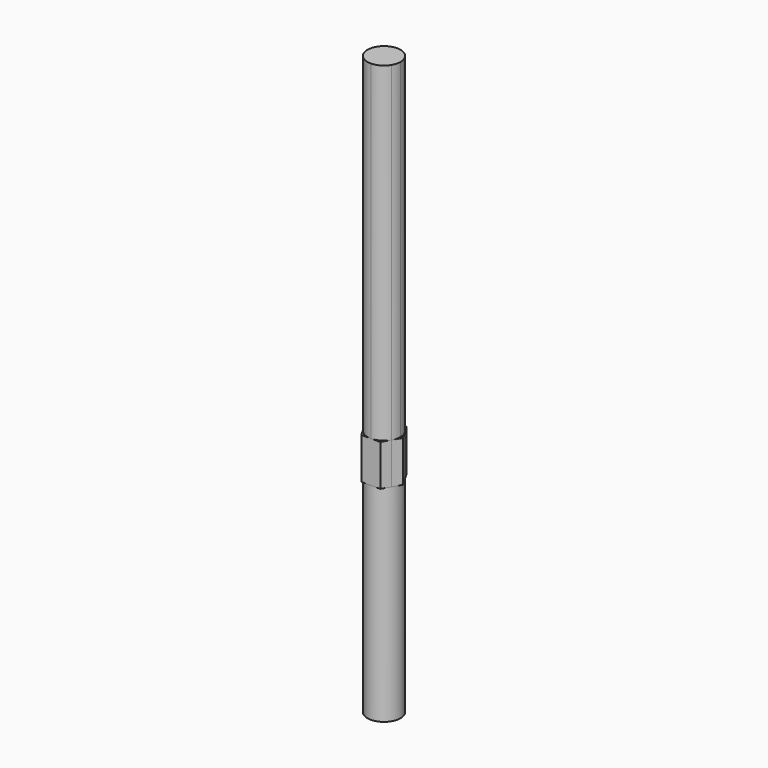
from build123d import *

# Parameters (mm, degrees)
F0_R     = 2
F1_DEPTH = 25
F3_DEPTH = 5
F5_DEPTH = 40


with BuildPart() as f1:
    # F0 (on Top) → F1 (new body)
    with BuildSketch(Plane.XY):
        Circle(F0_R)
    extrude(amount=F1_DEPTH)

    # F2 (on face) → F3 (join)
    with BuildSketch(Plane.XY.offset(25)):
        with BuildLine():
            Line((0, 2), (-1.1547005384, 2))
            Line((-1.1547005384, 2), (-1.7320507826, 1.0000000433))
            ThreePointArc((-1.7320507826, 1.0000000433), (-0.9999999783, 1.7320508201), (0, 2))
        make_face()
        with BuildLine():
            ThreePointArc((-1.7320507826, -1.0000000433), (-2, 0), (-1.7320507826, 1.0000000433))
            Line((-1.7320507826, 1.0000000433), (-2.3094010768, 0))
            Line((-2.3094010768, 0), (-1.7320507826, -1.0000000433))
        make_face()
        with BuildLine():
            ThreePointArc((0, -2), (-0.9999999783, -1.7320508201), (-1.7320507826, -1.0000000433))
            Line((-1.7320507826, -1.0000000433), (-1.1547005384, -2))
            Line((-1.1547005384, -2), (0, -2))
        make_face()
        with BuildLine():
            ThreePointArc((1.7320507983, -1.0000000161), (0.999999992, -1.7320508122), (0, -2))
            Line((0, -2), (1.1547005384, -2))
            Line((1.1547005384, -2), (1.7320507983, -1.0000000161))
        make_face()
        with BuildLine():
            Line((2.3094010768, 0), (1.7320507826, 1.0000000433))
            ThreePointArc((1.7320507826, 1.0000000433), (1.9318516461, 0.5176381144), (2, 0))
            ThreePointArc((2, 0), (1.9318516502, -0.5176380992), (1.7320507983, -1.0000000161))
            Line((1.7320507983, -1.0000000161), (2.3094010768, 0))
        make_face()
        with BuildLine():
            Line((1.1547005384, 2), (0, 2))
            ThreePointArc((0, 2), (0.9999999783, 1.7320508201), (1.7320507826, 1.0000000433))
            Line((1.7320507826, 1.0000000433), (1.1547005384, 2))
        make_face()
        with BuildLine():
            ThreePointArc((1.7320507826, 1.0000000433), (0.9999999783, 1.7320508201), (0, 2))
            ThreePointArc((0, 2), (-0.9999999783, 1.7320508201), (-1.7320507826, 1.0000000433))
            ThreePointArc((-1.7320507826, 1.0000000433), (-2, 0), (-1.7320507826, -1.0000000433))
            ThreePointArc((-1.7320507826, -1.0000000433), (-0.9999999783, -1.7320508201), (0, -2))
            ThreePointArc((0, -2), (0.999999992, -1.7320508122), (1.7320507983, -1.0000000161))
            ThreePointArc((1.7320507983, -1.0000000161), (1.9318516502, -0.5176380992), (2, 0))
            ThreePointArc((2, 0), (1.9318516461, 0.5176381144), (1.7320507826, 1.0000000433))
        make_face()
    extrude(amount=F3_DEPTH)

    # F4 (on face) → F5 (join)
    with BuildSketch(Plane.XY.offset(30)):
        with BuildLine():
            ThreePointArc((1.732050814, -0.9999999889), (1.9318516542, -0.517638084), (2, 0))
            ThreePointArc((2, 0), (1.9318516461, 0.5176381144), (1.7320507826, 1.0000000433))
            ThreePointArc((1.7320507826, 1.0000000433), (0.9999999783, 1.7320508201), (0, 2))
            ThreePointArc((0, 2), (-1.0000000056, 1.7320508044), (-1.732050814, 0.9999999889))
            ThreePointArc((-1.732050814, 0.9999999889), (-2, -3.14e-08), (-1.7320507826, -1.0000000433))
            ThreePointArc((-1.7320507826, -1.0000000433), (-0.9999999783, -1.7320508201), (0, -2))
            ThreePointArc((0, -2), (1.0000000056, -1.7320508044), (1.732050814, -0.9999999889))
        make_face()
    extrude(amount=F5_DEPTH)


solid = f1.part
